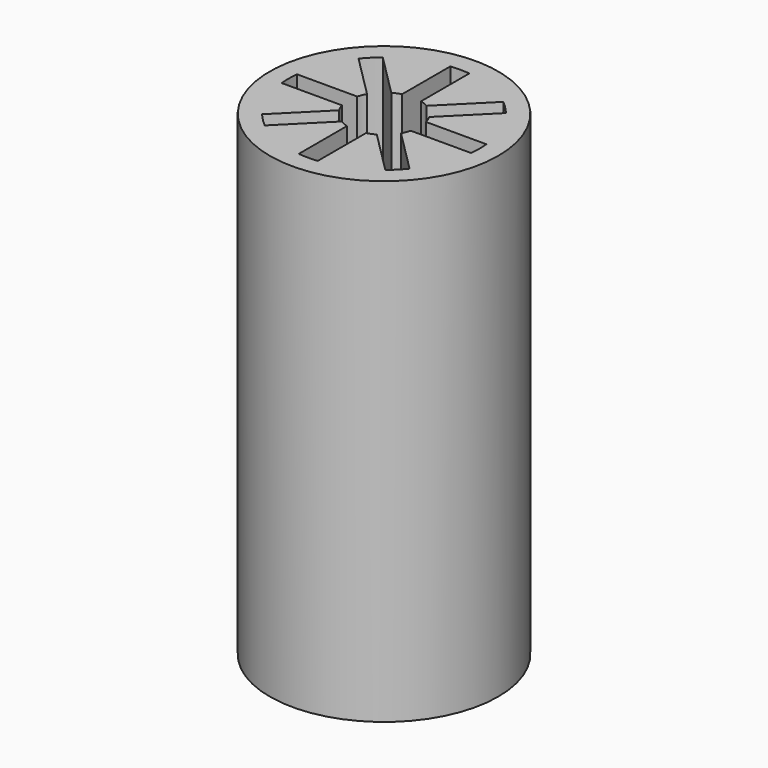
from build123d import *

# Parameters (mm, degrees)
F0_R     = 2.4
F1_DEPTH = 10


with BuildPart() as f1:
    # F0 (on Top) → F1 (new body)
    with BuildSketch(Plane.XY):
        Circle(F0_R)
        with BuildLine():
            ThreePointArc((-1.548546, 1.265703), (-1.414214, 1.414214), (-1.265703, 1.548546))
            Line((-1.265703, 1.548546), (-0.369705, 0.652548))
            ThreePointArc((-0.369705, 0.652548), (-0.287013, 0.69291), (-0.2, 0.722842))
            Line((-0.2, 0.722842), (-0.2, 1.989975))
            ThreePointArc((-0.2, 1.989975), (0, 2), (0.2, 1.989975))
            Line((0.2, 1.989975), (0.2, 0.722842))
            ThreePointArc((0.2, 0.722842), (0.287013, 0.69291), (0.369705, 0.652548))
            Line((0.369705, 0.652548), (1.265703, 1.548546))
            ThreePointArc((1.265703, 1.548546), (1.414214, 1.414214), (1.548546, 1.265703))
            Line((1.548546, 1.265703), (0.652548, 0.369705))
            ThreePointArc((0.652548, 0.369705), (0.69291, 0.287013), (0.722842, 0.2))
            Line((0.722842, 0.2), (1.989975, 0.2))
            ThreePointArc((1.989975, 0.2), (2, 0), (1.989975, -0.2))
            Line((1.989975, -0.2), (0.722842, -0.2))
            ThreePointArc((0.722842, -0.2), (0.69291, -0.287013), (0.652548, -0.369705))
            Line((0.652548, -0.369705), (1.548546, -1.265703))
            ThreePointArc((1.548546, -1.265703), (1.414214, -1.414214), (1.265703, -1.548546))
            Line((1.265703, -1.548546), (0.369705, -0.652548))
            ThreePointArc((0.369705, -0.652548), (0.287013, -0.69291), (0.2, -0.722842))
            Line((0.2, -0.722842), (0.2, -1.989975))
            ThreePointArc((0.2, -1.989975), (0, -2), (-0.2, -1.989975))
            Line((-0.2, -1.989975), (-0.2, -0.722842))
            ThreePointArc((-0.2, -0.722842), (-0.287013, -0.69291), (-0.369705, -0.652548))
            Line((-0.369705, -0.652548), (-1.265703, -1.548546))
            ThreePointArc((-1.265703, -1.548546), (-1.414214, -1.414214), (-1.548546, -1.265703))
            Line((-1.548546, -1.265703), (-0.652548, -0.369705))
            ThreePointArc((-0.652548, -0.369705), (-0.69291, -0.287013), (-0.722842, -0.2))
            Line((-0.722842, -0.2), (-1.989975, -0.2))
            ThreePointArc((-1.989975, -0.2), (-2, 0), (-1.989975, 0.2))
            Line((-1.989975, 0.2), (-0.722842, 0.2))
            ThreePointArc((-0.722842, 0.2), (-0.69291, 0.287013), (-0.652548, 0.369705))
            Line((-0.652548, 0.369705), (-1.548546, 1.265703))
        make_face(mode=Mode.SUBTRACT)
    extrude(amount=F1_DEPTH)


solid = f1.part
